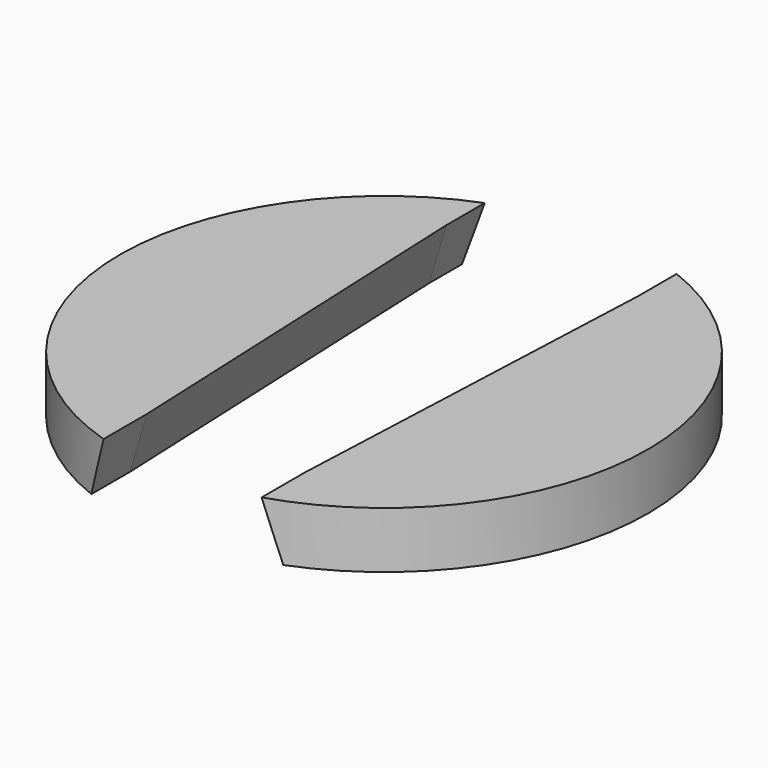
from build123d import *

# Parameters (mm, degrees)
F0_R     = 23.375
F1_DEPTH = 5
F7_DEPTH = 25
F8_DEPTH = 25


with BuildPart() as f1:
    # F0 (on Top) → F1 (new body)
    with BuildSketch(Plane.XY):
        Circle(F0_R)
    extrude(amount=F1_DEPTH)

    # F4 (on offset) → F6 section 0
    with BuildSketch(Plane.XZ.offset(17.5)):
        Polygon((-7, 5), (-8.5, 0), (8.5, 0), (7, 5), align=None)
    # F5 (on offset) → F6 section 1
    with BuildSketch(Plane.XZ.offset(-17.5)):
        Polygon((-10, 0), (10, 0), (8.5, 5), (-8.5, 5), align=None)
    loft(mode=Mode.SUBTRACT)

    # F4 (on offset) → F7 (cut)
    with BuildSketch(Plane.XZ.offset(17.5)):
        Polygon((-7, 5), (-8.5, 0), (8.5, 0), (7, 5), align=None)
    extrude(amount=F7_DEPTH, mode=Mode.SUBTRACT)

    # F5 (on offset) → F8 (cut)
    with BuildSketch(Plane.XZ.offset(-17.5)):
        Polygon((-10, 0), (10, 0), (8.5, 5), (-8.5, 5), align=None)
    extrude(amount=-F8_DEPTH, mode=Mode.SUBTRACT)


solid = f1.part
